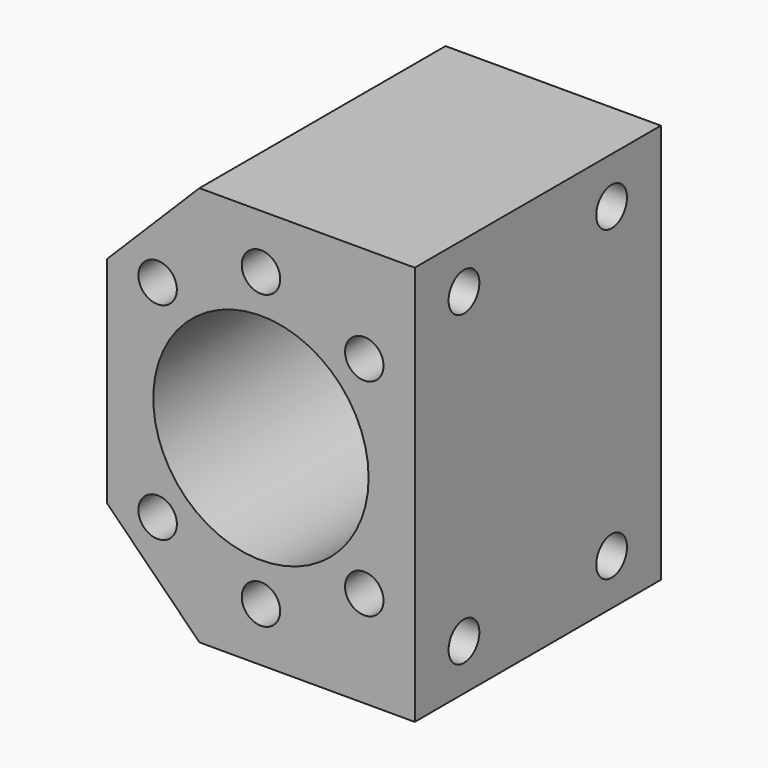
from build123d import *

# Parameters (mm, degrees)
SKETCH_R        = 14
PAD_DEPTH       = 40
SKETCH001_R     = 2.5
POCKET_DEPTH    = 10
SKETCH002_R     = 2.5
POCKET001_DEPTH = 10


with BuildPart() as part:
    # Sketch → Pad (new body)
    with BuildSketch(Plane.XZ):
        Polygon((20, -26), (20, 26), (-8, 26), (-20, 14), (-20, -14), (-8, -26), align=None)
        Circle(SKETCH_R, mode=Mode.SUBTRACT)
    extrude(amount=-PAD_DEPTH)

    # Sketch001 (on Face8 of Pad) → Pocket (cut)
    with BuildSketch(Plane.XZ):
        with Locations((-13.435029, 13.435029)):
            Circle(SKETCH001_R)
        with Locations((0, 19)):
            Circle(SKETCH001_R)
        with Locations((0, -19)):
            Circle(SKETCH001_R)
        with Locations((13.435029, -13.435029)):
            Circle(SKETCH001_R)
        with Locations((-13.435029, -13.435029)):
            Circle(SKETCH001_R)
        with Locations((13.435029, 13.435029)):
            Circle(SKETCH001_R)
    extrude(amount=-POCKET_DEPTH, mode=Mode.SUBTRACT)

    # Sketch002 (on Face1 of Pocket) → Pocket001 (cut)
    with BuildSketch(Plane(origin=(20, 0, 0), x_dir=(0, 0, 1), z_dir=(1, 0, 0))):
        with Locations((20, -8)):
            Circle(SKETCH002_R)
        with Locations((20, -32)):
            Circle(SKETCH002_R)
        with Locations((-20, -8)):
            Circle(SKETCH002_R)
        with Locations((-20, -32)):
            Circle(SKETCH002_R)
    extrude(amount=-POCKET001_DEPTH, mode=Mode.SUBTRACT)


solid = part.part
